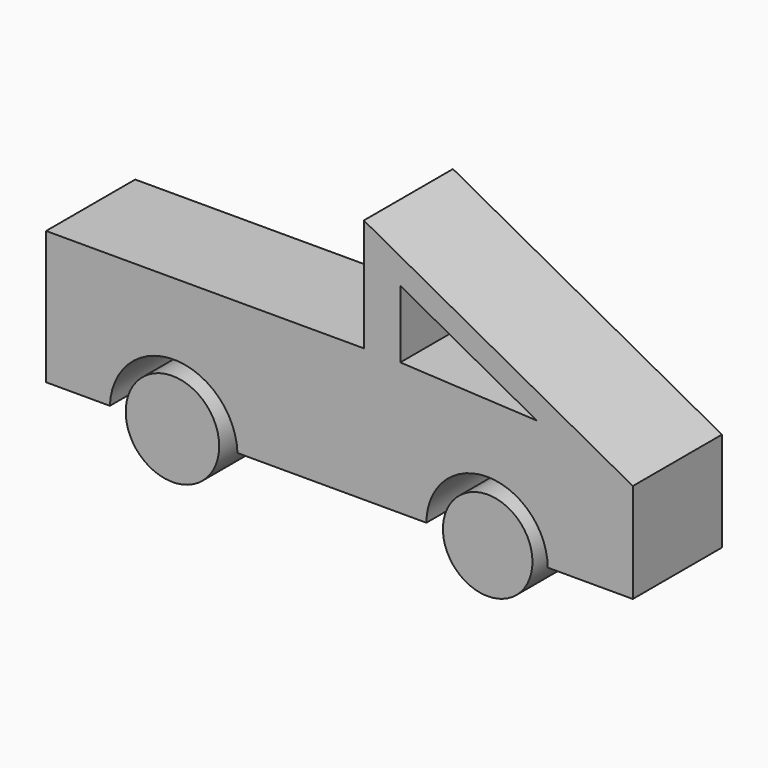
from build123d import *

# Parameters (mm, degrees)
F0_R     = 10.490574
F0_R_2   = 10.049277
F1_DEPTH = 25


with BuildPart() as f1:
    # F0 (on Front) → F1 (new body)
    with BuildSketch(Plane.XZ):
        with Locations((-42.954545, 0)):
            Circle(F0_R)
        with Locations((27.794117, 0)):
            Circle(F0_R_2)
        with BuildLine():
            Line((-71.310163, 29.899733), (-71.310163, 0))
            Line((-71.310163, 0), (-56.991979, 0))
            ThreePointArc((-56.991979, 0), (-42.673797, 13.820608), (-28.355615, 0))
            Line((-28.355615, 0), (14.037435, 0))
            ThreePointArc((14.037435, 0), (27.653745, 13.53161), (41.270055, 0))
            Line((41.270055, 0), (60.360968, 0))
            Line((60.360968, 0), (60.360968, 22.31952))
            Line((60.360968, 22.31952), (0, 55.167116))
            Line((0, 55.167116), (0, 29.899733))
            Line((0, 29.899733), (-71.310163, 29.899733))
        make_face()
        Polygon((8.181697, 29.773893), (8.181697, 44.92636), (38.829595, 28.248202), align=None, mode=Mode.SUBTRACT)
    extrude(amount=F1_DEPTH)


solid = f1.part
